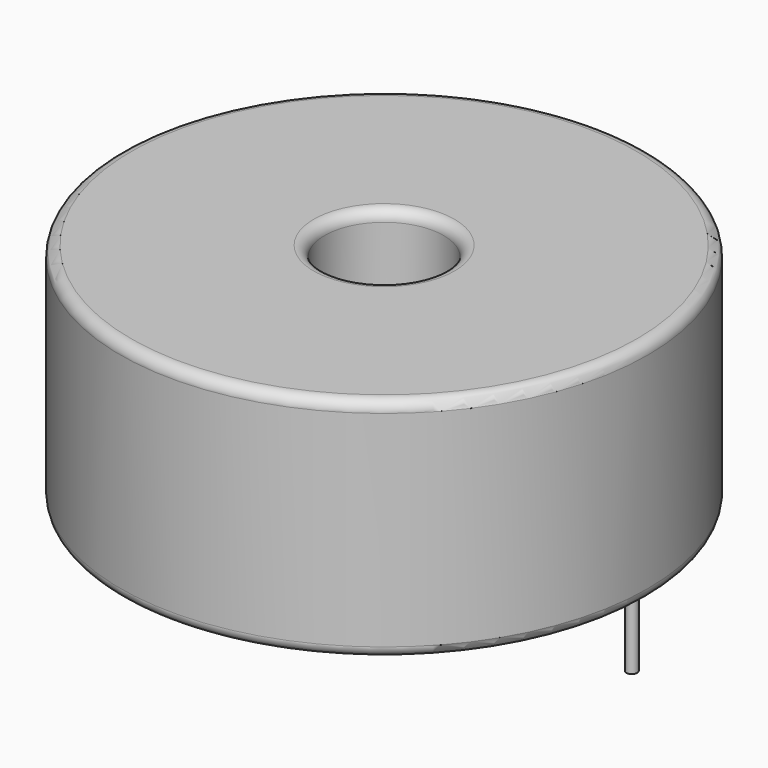
from build123d import *

# Parameters (mm, degrees)
SKETCH001_R       = 0.25
PAD001_DEPTH      = 5.25
PAD001_DEPTH_BACK = 3.5
SKETCH_R          = 12.2
SKETCH_R_2        = 2.75
PAD_DEPTH         = 10.5
FILLET_R          = 0.5


with BuildPart() as pad001:
    # Sketch001 → Pad001 (new body, two sides)
    with BuildSketch(Plane.XY.offset(0.5)) as pad001_sk:
        Circle(SKETCH001_R)
        with Locations((22.9, 0)):
            Circle(SKETCH001_R)
    extrude(amount=PAD001_DEPTH)
    extrude(pad001_sk.sketch, amount=-PAD001_DEPTH_BACK)


with BuildPart() as fillet_body:
    # Sketch → Pad (new body)
    with BuildSketch(Plane.XY.offset(0.1)):
        with Locations((11.45, 0)):
            Circle(SKETCH_R)
        with Locations((11.45, 0)):
            Circle(SKETCH_R_2, mode=Mode.SUBTRACT)
    extrude(amount=PAD_DEPTH)

    # Fillet
    fillet_edges = [fillet_body.edges().sort_by_distance(p)[0] for p in [
        (8.7, 0, 10.6),
        (-0.75, 0, 10.6),
        (-0.75, 0, 0.1),
    ]]
    fillet(fillet_edges, radius=FILLET_R)


solid = Compound([pad001.part, fillet_body.part])
